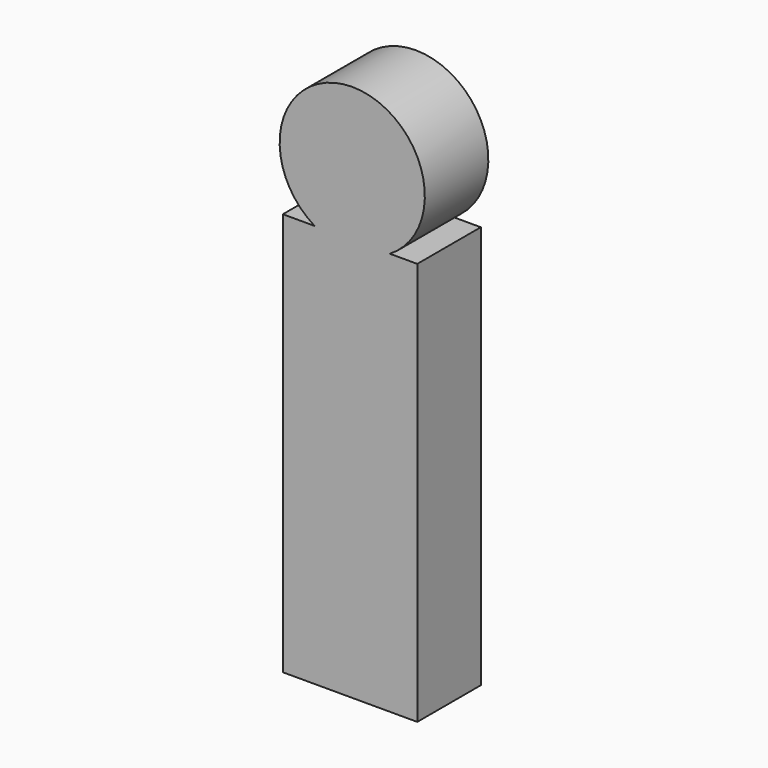
from build123d import *

# Parameters (mm, degrees)
F1_DEPTH = 270


with BuildPart() as f1:
    # F0 (on Front) → F1 (new body)
    with BuildSketch(Plane.XZ):
        with BuildLine():
            Line((-349.1087829109, 1371.6), (-93.3021331792, 1371.6))
            ThreePointArc((-93.3021331792, 1371.6), (-6.0776493306, 1461.5990628332), (25.7283299575, 1582.8274488449))
            ThreePointArc((25.7283299575, 1582.8274488449), (-342.4338440568, 1797.9552575593), (-349.1087829109, 1371.6))
        make_face()
        with BuildLine():
            Line((-457.2, 0), (0, 0))
            Line((0, 0), (0, 1371.6))
            Line((0, 1371.6), (-93.3021331792, 1371.6))
            ThreePointArc((-93.3021331792, 1371.6), (-221.205458045, 1335.8936608424), (-349.1087829109, 1371.6))
            Line((-349.1087829109, 1371.6), (-457.2, 1371.6))
            Line((-457.2, 1371.6), (-457.2, 0))
        make_face()
        with BuildLine():
            ThreePointArc((-349.1087829109, 1371.6), (-221.205458045, 1335.8936608424), (-93.3021331792, 1371.6))
            Line((-93.3021331792, 1371.6), (-349.1087829109, 1371.6))
        make_face()
    extrude(amount=F1_DEPTH)


solid = f1.part
